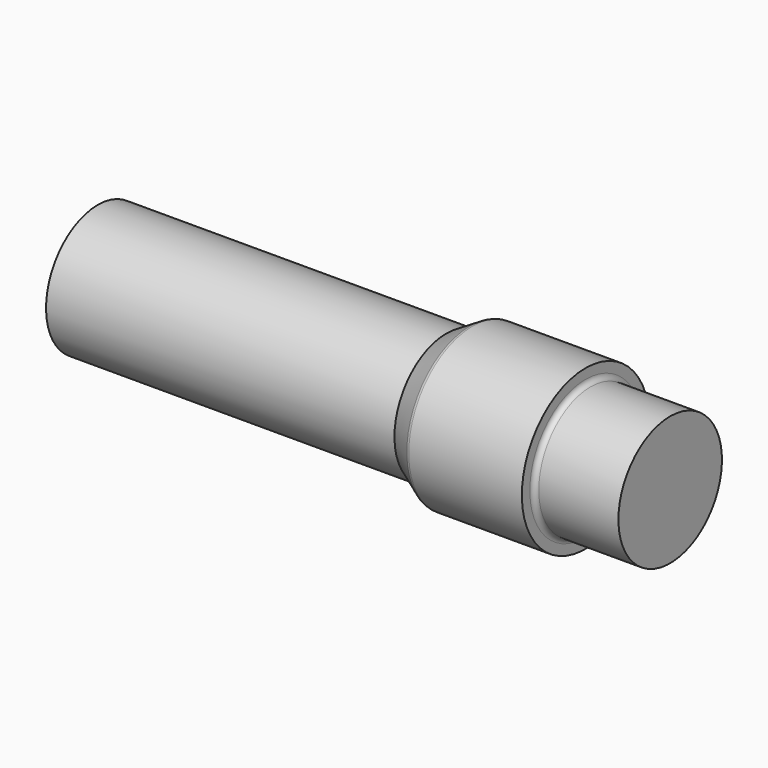
from build123d import *


with BuildPart() as f1:
    # F0 (on Front) → F1 (revolve)
    with BuildSketch(Plane.XZ):
        with BuildLine():
            ThreePointArc((75.276984, 16), (75.01005, 15.963715), (74.762488, 15.857493))
            Line((74.762488, 15.857493), (70, 13))
            Line((70, 13), (0, 13))
            Line((0, 13), (0, 0))
            Line((0, 0), (70, 0))
            Line((70, 0), (98, 0))
            Line((98, 0), (115, 0))
            Line((115, 0), (115, 13))
            Line((115, 13), (99, 13))
            ThreePointArc((99, 13), (98.292893, 13.292893), (98, 14))
            Line((98, 14), (98, 16))
            Line((98, 16), (75.276984, 16))
        make_face()
    revolve(axis=Axis((84, 0, 0), (-1, 0, 0)))


solid = f1.part
